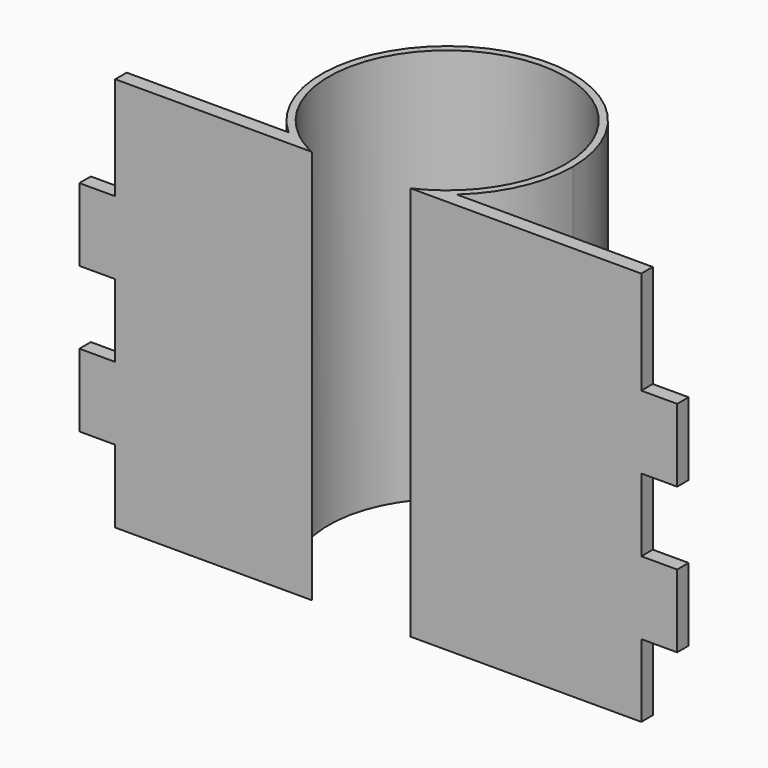
from build123d import *

# Parameters (mm, degrees)
F0_W     = 5
F0_H     = 10.16
F1_DEPTH = 2
F3_DEPTH = 55
F4_DEPTH = 55


with BuildPart() as f1:
    # F0 (on Front) → F1 (new body)
    with BuildSketch(Plane.XZ):
        Polygon((3.35, 0), (3.75, 0), (76.25, 0), (76.65, 0), (76.65, 10.16), (76.65, 20.32), (76.65, 30.48), (76.65, 40.64), (76.65, 55), (3.35, 55), (3.35, 40.64), (3.35, 30.48), (3.35, 20.32), (3.35, 10.16), align=None)
        with Locations((0.85, 15.24)):
            Rectangle(F0_W, F0_H)
        with Locations((79.15, 15.24)):
            Rectangle(F0_W, F0_H)
        with Locations((0.85, 35.56)):
            Rectangle(F0_W, F0_H)
        with Locations((79.15, 35.56)):
            Rectangle(F0_W, F0_H)
    extrude(amount=-F1_DEPTH)

    # F2 (on Top) → F3 (join)
    with BuildSketch(Plane.XY):
        with BuildLine():
            ThreePointArc((27.4464156413, 2), (30.3760816597, 29.8308767748), (54.1076163577, 15))
            ThreePointArc((54.1076163577, 15), (52.4384931326, 7.7684653019), (47.7688170742, 2))
            Line((47.7688170742, 2), (49.3229908716, 2))
            ThreePointArc((49.3229908716, 2), (53.5961912472, 7.8855447852), (55.1076163577, 15))
            ThreePointArc((55.1076163577, 15), (30.4931611429, 30.9885748895), (25.8922418439, 2))
            Line((25.8922418439, 2), (27.4464156413, 2))
        make_face()
    extrude(amount=F3_DEPTH)

    # F2 (on Top) → F4 (cut)
    with BuildSketch(Plane.XY):
        with BuildLine():
            Line((37.6076163577, 2), (27.4464156413, 2))
            ThreePointArc((27.4464156413, 2), (29.0315826838, 0.9038428491), (30.7337528153, 0))
            Line((30.7337528153, 0), (37.6076163577, 0))
            Line((37.6076163577, 0), (44.4814799001, 0))
            ThreePointArc((44.4814799001, 0), (46.1836500316, 0.9038428491), (47.7688170742, 2))
            Line((47.7688170742, 2), (37.6076163577, 2))
        make_face()
    extrude(amount=F4_DEPTH, mode=Mode.SUBTRACT)


solid = f1.part
